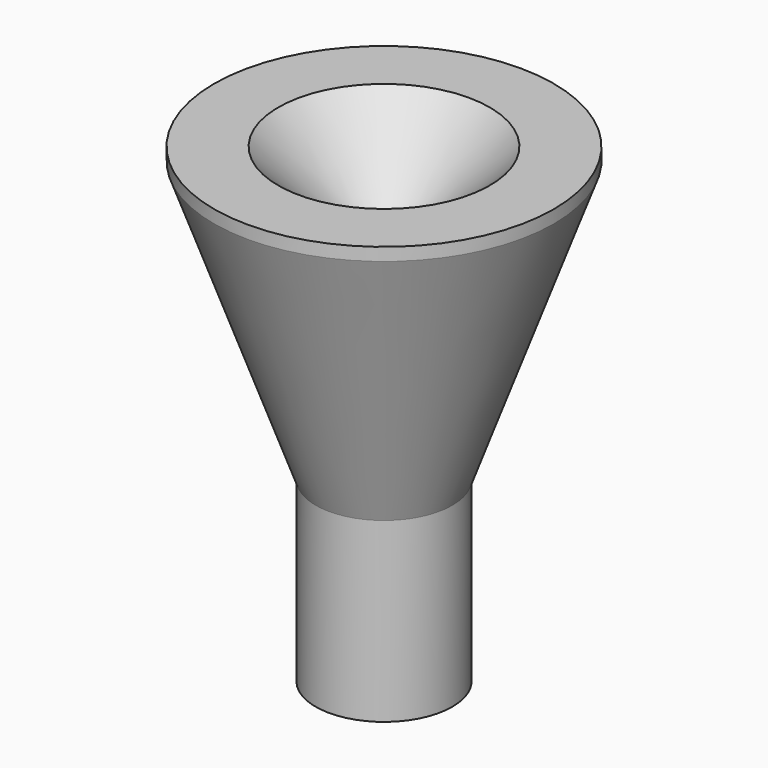
from build123d import *

# Parameters (mm, degrees)
F2_R     = 16
F3_DEPTH = 41.478163


with BuildPart() as f1:
    # F0 (on Right) → F1 (revolve)
    with BuildSketch(Plane.YZ):
        Polygon((0, 44), (0, 0), (16, 0), (39.748737, 65.748737), (39.748737, 68.748737), (24.748737, 68.748737), align=None)
    revolve(axis=Axis((0, 0, -29.456243), (0, 0, 1)))

    # F2 (on face) → F3 (join)
    with BuildSketch(Plane(origin=(0, 0, 0), x_dir=(1, 0, 0), z_dir=(0, 0, -1))):
        Circle(F2_R)
    extrude(amount=F3_DEPTH)


solid = f1.part
